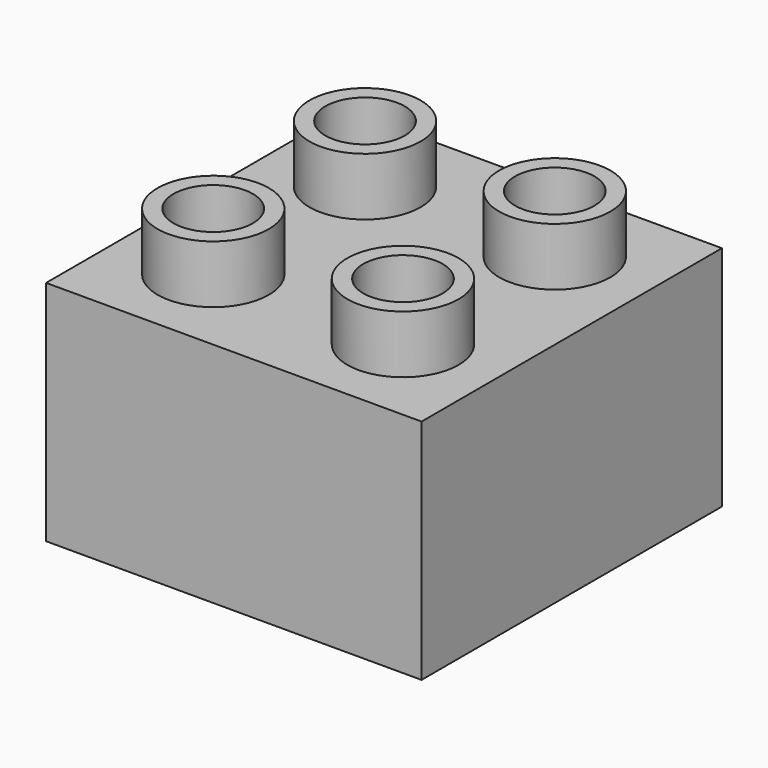
from build123d import *

# Parameters (mm, degrees)
F0_W     = 31.66
F0_H     = 31.66
F1_DEPTH = 19.18
F2_R     = 4.69
F2_R_2   = 3.35
F3_DEPTH = 4.88


with BuildPart() as f1:
    # F0 (on Top) → F1 (new body)
    with BuildSketch(Plane.XY):
        Rectangle(F0_W, F0_H)
    extrude(amount=F1_DEPTH)

    # F2 (on face) → F3 (join)
    with BuildSketch(Plane.XY.offset(19.18)):
        with Locations((8, 8)):
            Circle(F2_R)
        with Locations((8, 8)):
            Circle(F2_R_2, mode=Mode.SUBTRACT)
        with Locations((-8, 8)):
            Circle(F2_R)
        with Locations((-8, 8)):
            Circle(F2_R_2, mode=Mode.SUBTRACT)
        with Locations((-8, -8)):
            Circle(F2_R)
        with Locations((-8, -8)):
            Circle(F2_R_2, mode=Mode.SUBTRACT)
        with Locations((8, -8)):
            Circle(F2_R)
        with Locations((8, -8)):
            Circle(F2_R_2, mode=Mode.SUBTRACT)
    extrude(amount=F3_DEPTH)


solid = f1.part
